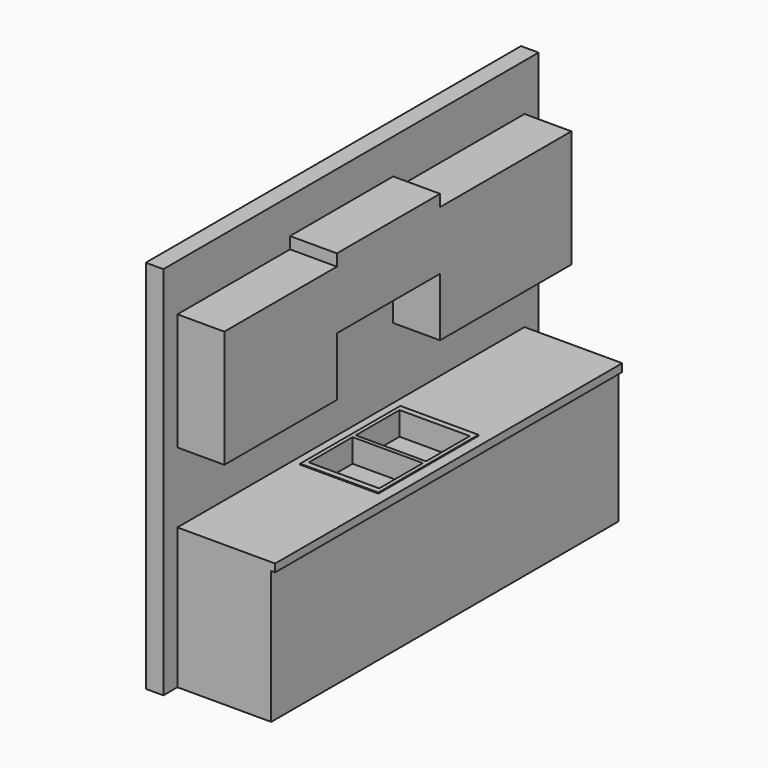
from build123d import *

# Parameters (mm, degrees)
F0_W      = 114.3
F0_H      = 3048
F1_DEPTH  = 2438.4
F2_W      = 2819.4
F2_H      = 863.6
F3_DEPTH  = 609.6
F4_W      = 2819.4
F4_H      = 762
F5_DEPTH  = 304.8
F6_W      = 838.2
F6_H      = 381
F7_DEPTH  = 304.8
F8_W      = 304.8
F8_H      = 838.2
F9_DEPTH  = 76.2
F10_W     = 635
F10_H     = 2819.4
F11_DEPTH = 50.8
F12_W     = 508
F12_H     = 812.8
F13_DEPTH = 6.35
F14_W     = 457.2
F14_H     = 355.6
F15_DEPTH = 152.4


with BuildPart() as f1:
    # F0 (on Top) → F1 (new body)
    with BuildSketch(Plane.XY):
        Rectangle(F0_W, F0_H)
    extrude(amount=F1_DEPTH)

    # F2 (on face) → F3 (join)
    with BuildSketch(Plane.YZ.offset(57.15)):
        with Locations((0, 431.8)):
            Rectangle(F2_W, F2_H)
    extrude(amount=F3_DEPTH)

    # F4 (on face) → F5 (join)
    with BuildSketch(Plane.YZ.offset(57.15)):
        with Locations((0, 1752.6)):
            Rectangle(F4_W, F4_H)
    extrude(amount=F5_DEPTH)

    # F6 (on face) → F7 (cut)
    with BuildSketch(Plane.YZ.offset(361.95)):
        with Locations((-76.2, 1562.1)):
            Rectangle(F6_W, F6_H)
    extrude(amount=-F7_DEPTH, mode=Mode.SUBTRACT)

    # F8 (on face) → F9 (join)
    with BuildSketch(Plane.XY.offset(2133.6)):
        with Locations((209.55, -76.2)):
            Rectangle(F8_W, F8_H)
    extrude(amount=F9_DEPTH)

    # F10 (on face) → F11 (join)
    with BuildSketch(Plane.XY.offset(863.6)):
        with Locations((374.65, 0)):
            Rectangle(F10_W, F10_H)
    extrude(amount=F11_DEPTH)

    # F12 (on face) → F13 (join)
    with BuildSketch(Plane.XY.offset(914.4)):
        with Locations((367.370255, -76.2)):
            Rectangle(F12_W, F12_H)
    extrude(amount=F13_DEPTH)

    # F14 (on face) → F15 (cut)
    with BuildSketch(Plane.XY.offset(920.75)):
        with Locations((367.370255, -266.7)):
            Rectangle(F14_W, F14_H)
        with Locations((367.370255, 114.3)):
            Rectangle(F14_W, F14_H)
    extrude(amount=-F15_DEPTH, mode=Mode.SUBTRACT)


solid = f1.part
